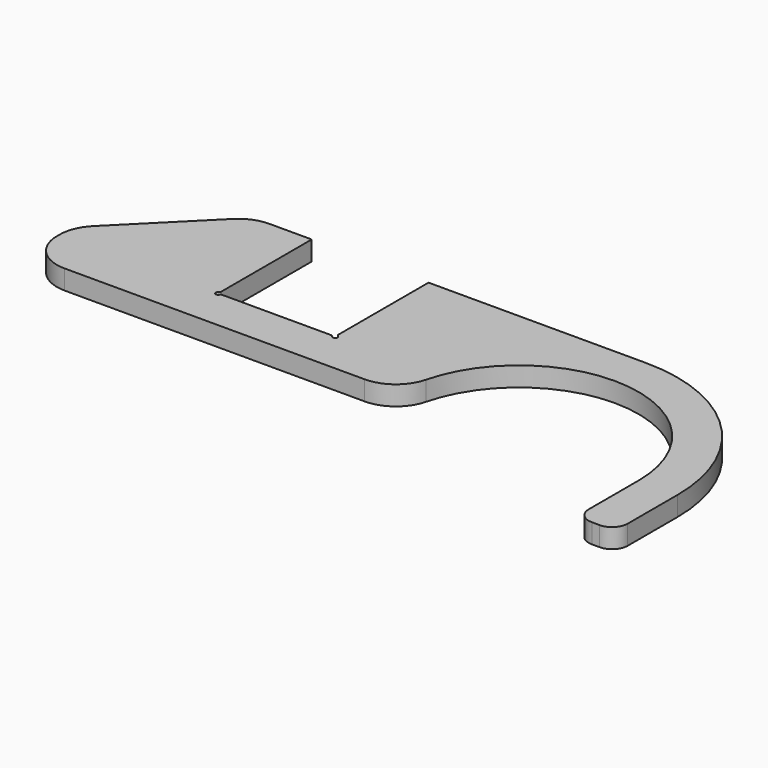
from build123d import *

# Parameters (mm, degrees)
F0_W     = 12.7
F0_H     = 25.4
F1_DEPTH = 6.35
F2_R     = 5.08
F3_R     = 12.7
F5_DEPTH = 6.351


with BuildPart() as f1:
    # F0 (on Top) → F1 (new body)
    with BuildSketch(Plane.XY):
        with BuildLine():
            Line((-87.171328, 6.23762), (-74.471328, 6.23762))
            ThreePointArc((-74.471328, 6.23762), (-35.375303, 45.333645), (3.720721, 6.23762))
            Line((3.720721, 6.23762), (16.420721, 6.23762))
            ThreePointArc((16.420721, 6.23762), (1.250017, 42.862941), (-35.375303, 58.033645))
            Line((-35.375303, 58.033645), (-106.221328, 58.033645))
            Line((-106.221328, 58.033645), (-106.221328, 19.933645))
            Line((-106.221328, 19.933645), (-144.321328, 19.933645))
            Line((-144.321328, 19.933645), (-144.321328, 58.033645))
            Line((-144.321328, 58.033645), (-163.371328, 58.033645))
            Line((-163.371328, 58.033645), (-196.117352, 25.28762))
            Line((-196.117352, 25.28762), (-196.117352, 6.23762))
            Line((-196.117352, 6.23762), (-87.171328, 6.23762))
        make_face()
        with Locations((10.070721, -6.46238)):
            Rectangle(F0_W, F0_H)
    extrude(amount=F1_DEPTH)

    # F2
    f2_edges = [f1.edges().sort_by_distance(p)[0] for p in [
        (16.420721, -19.16238, 3.175),
        (3.720721, -19.16238, 3.175),
    ]]
    fillet(f2_edges, radius=F2_R)

    # F3
    f3_edges = [f1.edges().sort_by_distance(p)[0] for p in [
        (-74.471328, 6.23762, 3.175),
        (-196.117352, 25.28762, 3.175),
        (-163.371328, 58.033645, 3.175),
        (-196.117352, 6.23762, 3.175),
    ]]
    fillet(f3_edges, radius=F3_R)

    # F4 (on face) → F5 (cut, through all)
    with BuildSketch(Plane.XY.offset(6.35)):
        with BuildLine():
            ThreePointArc((-144.321328, 21.30846), (-144.42767, 20.911585), (-144.718203, 20.621053))
            ThreePointArc((-144.718203, 20.621053), (-144.882594, 19.372379), (-143.63392, 19.53677))
            ThreePointArc((-143.63392, 19.53677), (-143.343388, 19.827303), (-142.946513, 19.933645))
            Line((-142.946513, 19.933645), (-144.321328, 21.30846))
        make_face()
        with BuildLine():
            ThreePointArc((-105.824453, 20.621053), (-106.114986, 20.911585), (-106.221328, 21.30846))
            Line((-106.221328, 21.30846), (-107.596143, 19.933645))
            ThreePointArc((-107.596143, 19.933645), (-107.199268, 19.827303), (-106.908736, 19.53677))
            ThreePointArc((-106.908736, 19.53677), (-105.660062, 19.372379), (-105.824453, 20.621053))
        make_face()
    extrude(amount=-F5_DEPTH, mode=Mode.SUBTRACT)


solid = f1.part
